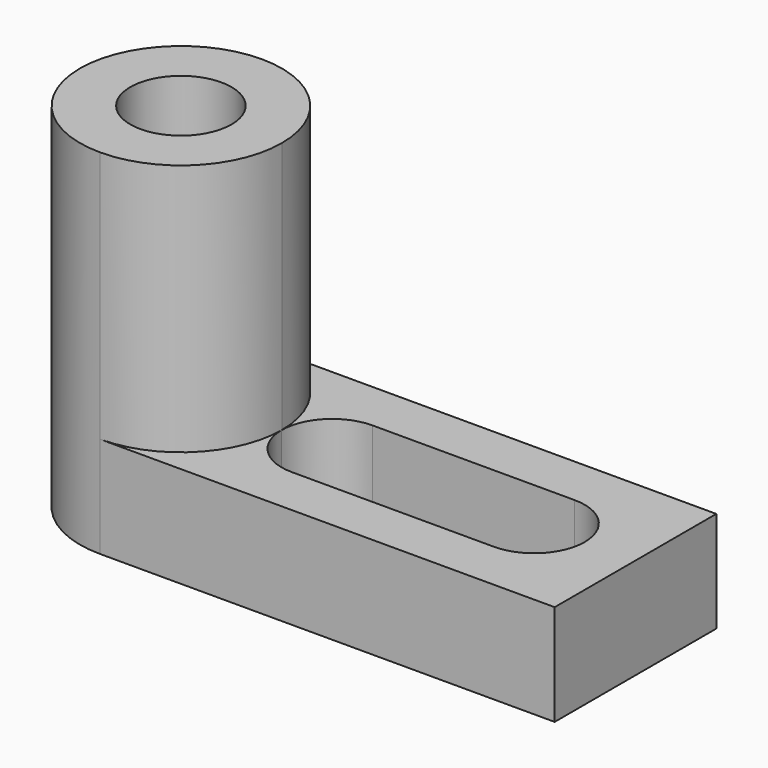
from build123d import *

# Parameters (mm, degrees)
F0_W      = 69.85
F0_H      = 44.45
F1_DEPTH  = 25.4
F2_W      = 44.45
F2_H      = 31.75
F3_DEPTH  = 25.401
F5_DEPTH  = 44.451
F7_DEPTH  = 31.75
F9_DEPTH  = 44.451
F10_R     = 6.3621373658
F11_DEPTH = 44.451


with BuildPart() as f1:
    # F0 (on Front) → F1 (new body)
    with BuildSketch(Plane.XZ):
        with Locations((-34.925, 22.225)):
            Rectangle(F0_W, F0_H)
    extrude(amount=F1_DEPTH)

    # F2 (on face) → F3 (cut, through all)
    with BuildSketch(Plane.XZ.offset(25.4)):
        with Locations((-22.225, 28.575)):
            Rectangle(F2_W, F2_H)
    extrude(amount=-F3_DEPTH, mode=Mode.SUBTRACT)

    # F4 (on face) → F5 (cut, through all)
    with BuildSketch(Plane.XY.offset(44.45)):
        with BuildLine():
            ThreePointArc((-69.85, -12.7), (-66.1302561211, -3.7197438789), (-57.15, 0))
            Line((-57.15, 0), (-69.85, 0))
            Line((-69.85, 0), (-69.85, -12.7))
        make_face()
        with BuildLine():
            Line((-69.85, -25.4), (-57.15, -25.4))
            ThreePointArc((-57.15, -25.4), (-66.1302561211, -21.6802561211), (-69.85, -12.7))
            Line((-69.85, -12.7), (-69.85, -25.4))
        make_face()
    extrude(amount=-F5_DEPTH, mode=Mode.SUBTRACT)

    # F6 (on face) → F7 (cut)
    with BuildSketch(Plane.XY.offset(44.45)):
        with BuildLine():
            ThreePointArc((-57.15, 0), (-48.1697438789, -3.7197438789), (-44.45, -12.7))
            Line((-44.45, -12.7), (-44.45, 0))
            Line((-44.45, 0), (-57.15, 0))
        make_face()
        with BuildLine():
            Line((-44.45, -25.4), (-44.45, -12.7))
            ThreePointArc((-44.45, -12.7), (-48.1697438789, -21.6802561211), (-57.15, -25.4))
            Line((-57.15, -25.4), (-44.45, -25.4))
        make_face()
    extrude(amount=-F7_DEPTH, mode=Mode.SUBTRACT)

    # F8 (on face) → F9 (cut, through all)
    with BuildSketch(Plane(origin=(0, 0, 0), x_dir=(1, 0, 0), z_dir=(0, 0, -1))):
        with BuildLine():
            Line((-38.1, 6.3958125417), (-12.7, 6.3958125417))
            ThreePointArc((-12.7, 6.3958125417), (-8.2098719395, 8.2556844811), (-6.35, 12.7458125417))
            ThreePointArc((-6.35, 12.7458125417), (-8.2098719395, 17.2359406022), (-12.7, 19.0958125417))
            Line((-12.7, 19.0958125417), (-38.1, 19.0958125417))
            ThreePointArc((-38.1, 19.0958125417), (-42.5901280605, 17.2359406022), (-44.45, 12.7458125417))
            ThreePointArc((-44.45, 12.7458125417), (-42.5901280605, 8.2556844811), (-38.1, 6.3958125417))
        make_face()
    extrude(amount=-F9_DEPTH, mode=Mode.SUBTRACT)

    # F10 (on face) → F11 (cut, through all)
    with BuildSketch(Plane.XY.offset(44.45)):
        with Locations((-57.15, -12.7)):
            Circle(F10_R)
    extrude(amount=-F11_DEPTH, mode=Mode.SUBTRACT)


solid = f1.part
